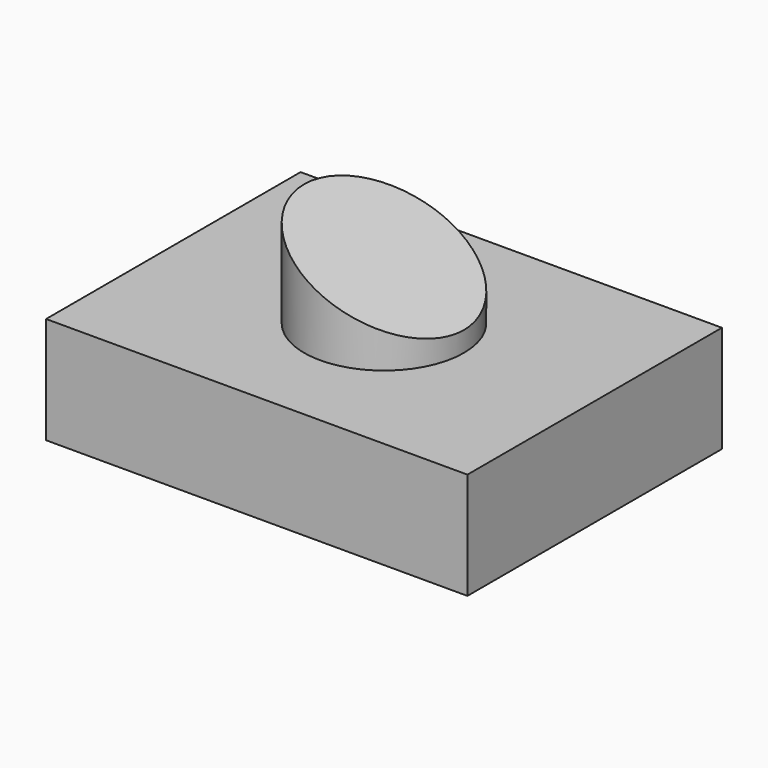
from build123d import *

# Parameters (mm, degrees)
F0_W          = 100.2360209823
F0_H          = 75.6767615676
F1_DEPTH      = 25.4
F2_R          = 19.0125799506
F3_DEPTH      = 25.4
F5_DEPTH      = 37.8393807838
F5_DEPTH_BACK = 37.8393807838


with BuildPart() as f1:
    # F0 (on Top) → F1 (new body)
    with BuildSketch(Plane.XY):
        Rectangle(F0_W, F0_H)
    extrude(amount=F1_DEPTH)

    # F2 (on face) → F3 (join)
    with BuildSketch(Plane.XY.offset(25.4)):
        Circle(F2_R)
    extrude(amount=F3_DEPTH)

    # F4 (on Front) → F5 (cut, two sides)
    with BuildSketch(Plane.XZ) as f5_sk:
        Polygon((-21.6138623655, 59.192981571), (-21.6138623655, 49.6012866497), (21.2963428348, 29.1053559631), (21.2963428348, 59.192981571), align=None)
    extrude(amount=-F5_DEPTH, mode=Mode.SUBTRACT)
    extrude(f5_sk.sketch, amount=F5_DEPTH_BACK, mode=Mode.SUBTRACT)


solid = f1.part
